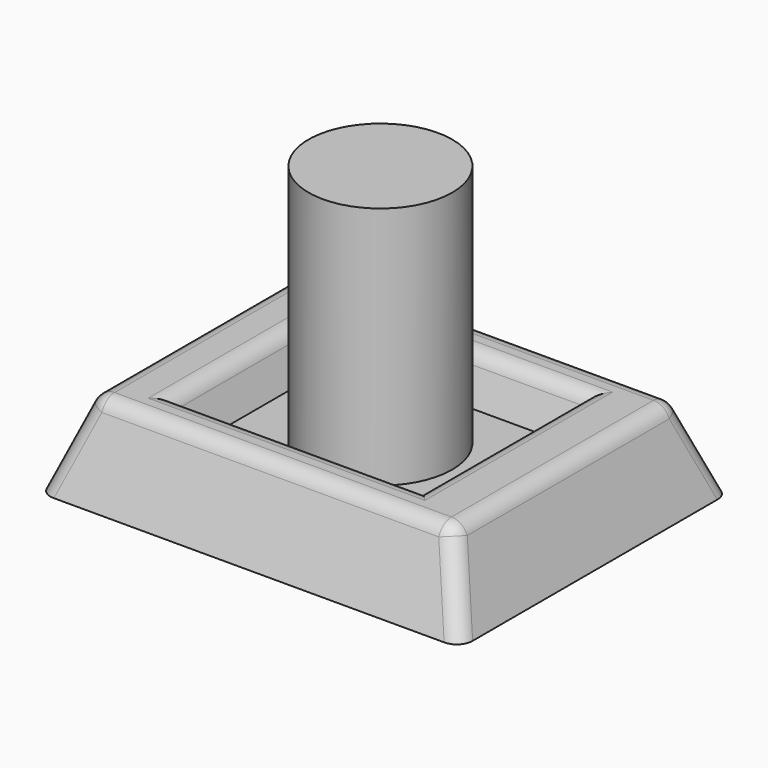
from build123d import *

# Parameters (mm, degrees)
F0_W     = 254
F0_H     = 203.2
F1_DEPTH = 50.8
F1_TAPER = 20
F2_W     = 152.4
F2_H     = 127
F3_DEPTH = 25.4
F3_TAPER = 20
F4_R     = 10.16
F5_R     = 43.275006419
F6_DEPTH = 146.812


with BuildPart() as f1:
    # F0 (on Top) → F1 (new body)
    with BuildSketch(Plane.XY):
        with Locations((2.1702556405, 0)):
            Rectangle(F0_W, F0_H)
    extrude(amount=F1_DEPTH, taper=F1_TAPER)

    # F2 (on face) → F3 (cut)
    with BuildSketch(Plane.XY.offset(50.8)):
        Rectangle(F2_W, F2_H)
    extrude(amount=-F3_DEPTH, taper=F3_TAPER, mode=Mode.SUBTRACT)

    # F4
    f4_edges = [f1.edges().sort_by_distance(p)[0] for p in [
        (-106.340056, 0, 50.8),
        (2.170256, 83.110312, 50.8),
        (2.170256, -83.110312, 50.8),
        (110.680568, 0, 50.8),
        (76.2, 0, 50.8),
        (0, 63.5, 50.8),
        (-76.2, 0, 50.8),
        (0, -63.5, 50.8),
        (119.925412, -92.355156, 25.4),
        (119.925412, 92.355156, 25.4),
        (-115.5849, -92.355156, 25.4),
        (-115.5849, 92.355156, 25.4),
    ]]
    fillet(f4_edges, radius=F4_R)

    # F5 (on face) → F6 (join)
    with BuildSketch(Plane.XY.offset(25.4)):
        Circle(F5_R)
    extrude(amount=F6_DEPTH)


solid = f1.part
